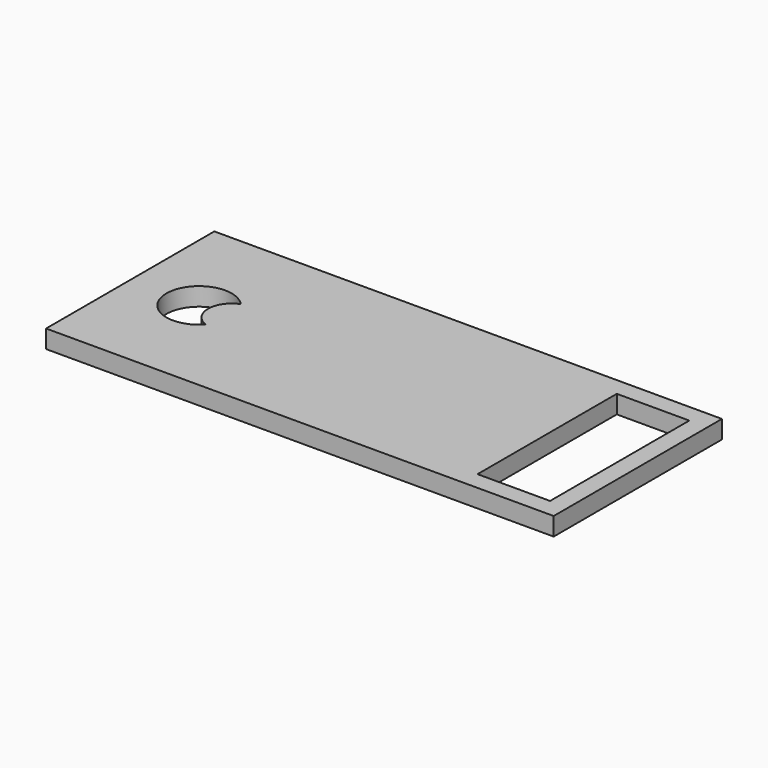
from build123d import *

# Parameters (mm, degrees)
F0_W     = 88.9
F0_H     = 36.83
F0_W_2   = 12.7
F0_H_2   = 30.48
F1_DEPTH = 3.175


with BuildPart() as f1:
    # F0 (on Top) → F1 (new body)
    with BuildSketch(Plane.XY):
        Rectangle(F0_W, F0_H)
        with BuildLine():
            ThreePointArc((-28.167677, -3.856865), (-38.1, 0), (-28.167677, 3.856865))
            ThreePointArc((-28.167677, 3.856865), (-30.807444, 0), (-28.167677, -3.856865))
        make_face(mode=Mode.SUBTRACT)
        with Locations((34.925, 0)):
            Rectangle(F0_W_2, F0_H_2, mode=Mode.SUBTRACT)
    extrude(amount=F1_DEPTH)


solid = f1.part
